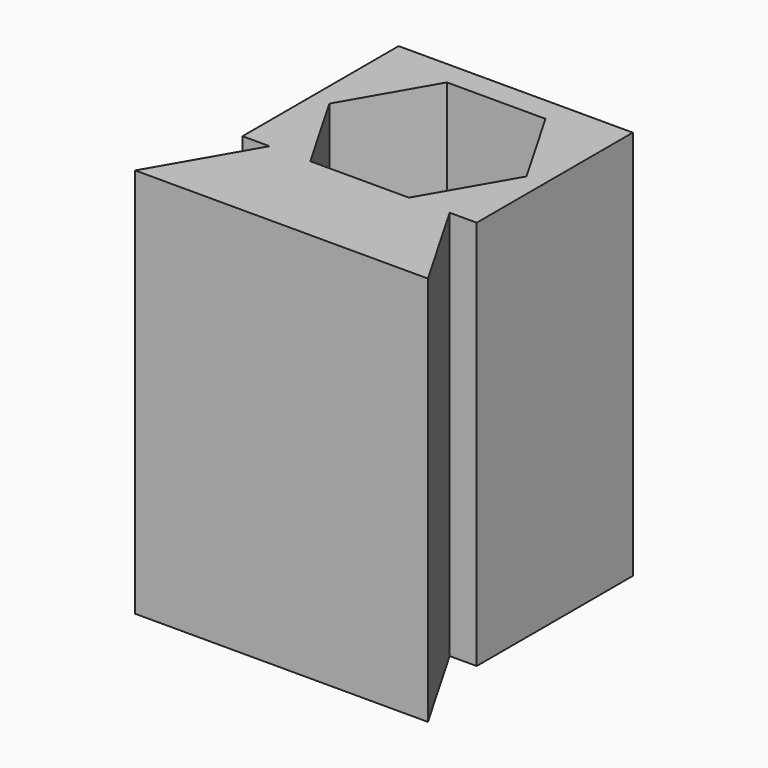
from build123d import *

# Parameters (mm, degrees)
F1_DEPTH = 25.4


with BuildPart() as f1:
    # F0 (on Top) → F1 (new body)
    with BuildSketch(Plane.XY):
        Polygon((-7.62, 12.7), (-7.62, 0), (-5.858826, 0), (-9.525, -6.35), (9.525, -6.35), (5.858826, 0), (7.62, 0), (7.62, 12.7), align=None)
        Polygon((6.415805, 5.55625), (3.207902, 0), (-3.207902, 0), (-6.415805, 5.55625), (-3.207902, 11.1125), (3.207902, 11.1125), align=None, mode=Mode.SUBTRACT)
    extrude(amount=F1_DEPTH)


solid = f1.part
